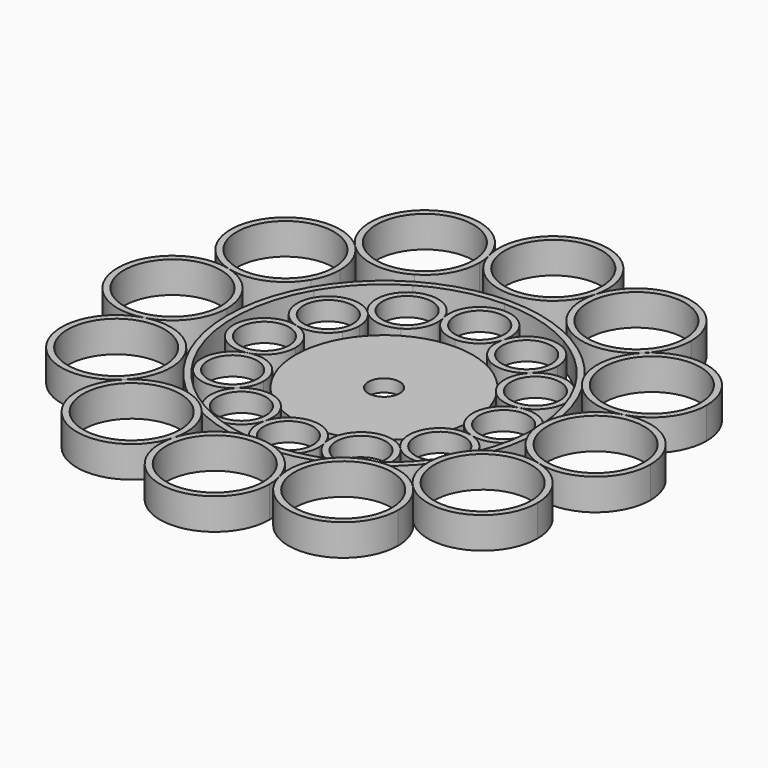
from build123d import *

# Parameters (mm, degrees)
F0_R     = 15.4599093104
F1_DEPTH = 10
F2_DEPTH = 8
F0_R_2   = 7.8690230445
F3_DEPTH = 6
F0_R_3   = 5
F4_DEPTH = 4


with BuildPart() as f1:
    # F0 (on Top) → F1 (new body)
    with BuildSketch(Plane.XY):
        with BuildLine():
            ThreePointArc((-62.9409517906, 16.8649772031), (-51.7403768626, 17.5991019337), (-43.3012700903, 25.0000001714))
            ThreePointArc((-43.3012700903, 25.0000001714), (-41.5570178466, 29.2109976955), (-40.9620858894, 33.7299546552))
            ThreePointArc((-40.9620858894, 33.7299546552), (-42.2911423312, 40.4115726372), (-46.0759748637, 46.0759748637))
            ThreePointArc((-46.0759748637, 46.0759748637), (-73.5427203081, 42.4599091413), (-62.9409517906, 16.8649772031))
        make_face()
        with Locations((-58.4219951998, 33.7299546552)):
            Circle(F0_R, mode=Mode.SUBTRACT)
    extrude(amount=F1_DEPTH)


with BuildPart() as f1b:
    # F0 (on Top) → F1, piece 2 (new body)
    with BuildSketch(Plane.XY):
        with BuildLine():
            ThreePointArc((-46.0759748637, 46.0759748637), (-36.0089300607, 41.1114578243), (-24.9999999501, 43.301270218))
            ThreePointArc((-24.9999999501, 43.301270218), (-18.6092296302, 49.6920405696), (-16.2700453448, 58.4219951998))
            ThreePointArc((-16.2700453448, 58.4219951998), (-16.4194173323, 60.7009710046), (-16.8649774978, 62.9409528903))
            ThreePointArc((-16.8649774978, 62.9409528903), (-42.4599096342, 73.5427200235), (-46.0759748637, 46.0759748637))
        make_face()
        with Locations((-33.7299546552, 58.4219951998)):
            Circle(F0_R, mode=Mode.SUBTRACT)
    extrude(amount=F1_DEPTH)


with BuildPart() as f1c:
    # F0 (on Top) → F1, piece 3 (new body)
    with BuildSketch(Plane.XY):
        with BuildLine():
            ThreePointArc((-16.8649774978, 62.9409528903), (-10.6289195521, 53.6080320989), (1.283e-07, 50))
            ThreePointArc((1.283e-07, 50), (10.6289191313, 53.608031776), (16.8649771568, 62.9409516176))
            ThreePointArc((16.8649771568, 62.9409516176), (17.3105373228, 65.1809335044), (17.4599093104, 67.4599093104))
            ThreePointArc((17.4599093104, 67.4599093104), (-2.2789751528, 84.7704467192), (-16.8649774978, 62.9409528903))
        make_face()
        with Locations((0, 67.4599093104)):
            Circle(F0_R, mode=Mode.SUBTRACT)
    extrude(amount=F1_DEPTH)


with BuildPart() as f1d:
    # F0 (on Top) → F1, piece 4 (new body)
    with BuildSketch(Plane.XY):
        with BuildLine():
            ThreePointArc((16.8649771568, 62.9409516176), (17.5991018694, 51.7403770177), (24.9999997254, 43.3012703478))
            ThreePointArc((24.9999997254, 43.3012703478), (36.0089299768, 41.1114578133), (46.0759749275, 46.0759749275))
            ThreePointArc((46.0759749275, 46.0759749275), (49.8608075066, 51.7403771761), (51.1898639656, 58.4219951998))
            ThreePointArc((51.1898639656, 58.4219951998), (36.0089298068, 75.7325326088), (16.8649771568, 62.9409516176))
        make_face()
        with Locations((33.7299546552, 58.4219951998)):
            Circle(F0_R, mode=Mode.SUBTRACT)
    extrude(amount=F1_DEPTH)


with BuildPart() as f1e:
    # F0 (on Top) → F1, piece 5 (new body)
    with BuildSketch(Plane.XY):
        with BuildLine():
            ThreePointArc((46.0759749275, 46.0759749275), (41.1114578468, 36.0089302319), (43.3012700905, 25.000000171))
            ThreePointArc((43.3012700905, 25.000000171), (51.7403768788, 17.599101927), (62.940951824, 16.8649772121))
            ThreePointArc((62.940951824, 16.8649772121), (72.2738724366, 23.101035136), (75.8819045103, 33.7299546552))
            ThreePointArc((75.8819045103, 33.7299546552), (65.1036132235, 49.8608075066), (46.0759749275, 46.0759749275))
        make_face()
        with Locations((58.4219951998, 33.7299546552)):
            Circle(F0_R, mode=Mode.SUBTRACT)
    extrude(amount=F1_DEPTH)


with BuildPart() as f1f:
    # F0 (on Top) → F1, piece 6 (new body)
    with BuildSketch(Plane.XY):
        with BuildLine():
            ThreePointArc((62.940951824, 16.8649772121), (53.608031802, 10.6289191651), (50, 0))
            ThreePointArc((50, 0), (53.6080317622, -10.6289191133), (62.9409516977, -16.8649771782))
            ThreePointArc((62.9409516977, -16.8649771782), (78.0888284237, -13.8518775483), (84.9198186209, 0))
            ThreePointArc((84.9198186209, 0), (78.0888284756, 13.8518775085), (62.940951824, 16.8649772121))
        make_face()
        with Locations((67.4599093104, 0)):
            Circle(F0_R, mode=Mode.SUBTRACT)
    extrude(amount=F1_DEPTH)


with BuildPart() as f1g:
    # F0 (on Top) → F1, piece 7 (new body)
    with BuildSketch(Plane.XY):
        with BuildLine():
            ThreePointArc((62.9409516977, -16.8649771782), (51.7403772984, -17.5991017532), (43.3012706101, -24.999999271))
            ThreePointArc((43.3012706101, -24.999999271), (41.111457779, -36.0089297167), (46.0759749275, -46.0759749275))
            ThreePointArc((46.0759749275, -46.0759749275), (65.1036132235, -49.8608075066), (75.8819045103, -33.7299546552))
            ThreePointArc((75.8819045103, -33.7299546552), (72.2738723968, -23.1010350841), (62.9409516977, -16.8649771782))
        make_face()
        with Locations((58.4219951998, -33.7299546552)):
            Circle(F0_R, mode=Mode.SUBTRACT)
    extrude(amount=F1_DEPTH)


with BuildPart() as f1h:
    # F0 (on Top) → F1, piece 8 (new body)
    with BuildSketch(Plane.XY):
        with BuildLine():
            ThreePointArc((46.0759749275, -46.0759749275), (36.0089302809, -41.1114578533), (25.0000002566, -43.3012700411))
            ThreePointArc((25.0000002566, -43.3012700411), (17.5991019809, -51.7403767486), (16.8649771648, -62.9409516474))
            ThreePointArc((16.8649771648, -62.9409516474), (36.0089298221, -75.7325326068), (51.1898639656, -58.4219951998))
            ThreePointArc((51.1898639656, -58.4219951998), (49.8608075066, -51.7403771761), (46.0759749275, -46.0759749275))
        make_face()
        with Locations((33.7299546552, -58.4219951998)):
            Circle(F0_R, mode=Mode.SUBTRACT)
    extrude(amount=F1_DEPTH)


with BuildPart() as f1i:
    # F0 (on Top) → F1, piece 9 (new body)
    with BuildSketch(Plane.XY):
        with BuildLine():
            ThreePointArc((16.8649771648, -62.9409516474), (10.6289190539, -53.6080317166), (-9.75e-08, -50))
            ThreePointArc((-9.75e-08, -50), (-10.6289191191, -53.6080317666), (-16.8649771568, -62.9409516176))
            ThreePointArc((-16.8649771568, -62.9409516176), (-2.278975806, -84.7704466332), (17.4599093104, -67.4599093104))
            ThreePointArc((17.4599093104, -67.4599093104), (17.3105373248, -65.1809335197), (16.8649771648, -62.9409516474))
        make_face()
        with Locations((0, -67.4599093104)):
            Circle(F0_R, mode=Mode.SUBTRACT)
    extrude(amount=F1_DEPTH)


with BuildPart() as f1j:
    # F0 (on Top) → F1, piece 10 (new body)
    with BuildSketch(Plane.XY):
        with BuildLine():
            ThreePointArc((-16.2700453448, -58.4219951998), (-18.6092294861, -49.6920408192), (-24.9999994509, -43.3012705063))
            ThreePointArc((-24.9999994509, -43.3012705063), (-36.0089297707, -41.1114577861), (-46.0759748576, -46.0759748576))
            ThreePointArc((-46.0759748576, -46.0759748576), (-42.4599090674, -73.5427203507), (-16.8649771568, -62.9409516176))
            ThreePointArc((-16.8649771568, -62.9409516176), (-16.4194172463, -60.7009703514), (-16.2700453448, -58.4219951998))
        make_face()
        with Locations((-33.7299546552, -58.4219951998)):
            Circle(F0_R, mode=Mode.SUBTRACT)
    extrude(amount=F1_DEPTH)


with BuildPart() as f1k:
    # F0 (on Top) → F1, piece 11 (new body)
    with BuildSketch(Plane.XY):
        with BuildLine():
            ThreePointArc((-40.9620858894, -33.7299546552), (-41.5570178998, -29.2109974969), (-43.3012702958, -24.9999998153))
            ThreePointArc((-43.3012702958, -24.9999998153), (-51.7403775411, -17.5991016526), (-62.9409528124, -16.8649774769))
            ThreePointArc((-62.9409528124, -16.8649774769), (-73.5427200415, -42.459909603), (-46.0759748576, -46.0759748576))
            ThreePointArc((-46.0759748576, -46.0759748576), (-42.2911423295, -40.4115726332), (-40.9620858894, -33.7299546552))
        make_face()
        with Locations((-58.4219951998, -33.7299546552)):
            Circle(F0_R, mode=Mode.SUBTRACT)
    extrude(amount=F1_DEPTH)


with BuildPart() as f1l:
    # F0 (on Top) → F1, piece 12 (new body)
    with BuildSketch(Plane.XY):
        with BuildLine():
            ThreePointArc((-62.9409528124, -16.8649774769), (-53.6080321134, -10.628919571), (-50, 0))
            ThreePointArc((-50, 0), (-53.6080317915, 10.6289191514), (-62.9409517906, 16.8649772031))
            ThreePointArc((-62.9409517906, 16.8649772031), (-84.9198186209, 5.289e-07), (-62.9409528124, -16.8649774769))
        make_face()
        with Locations((-67.4599093104, 0)):
            Circle(F0_R, mode=Mode.SUBTRACT)
    extrude(amount=F1_DEPTH)


with BuildPart() as f2:
    # F0 (on Top) → F2 (new body)
    with BuildSketch(Plane.XY):
        with BuildLine():
            ThreePointArc((43.3012706101, -24.999999271), (48.2962914234, -12.9409518486), (50, 0))
            ThreePointArc((50, 0), (48.2962912889, 12.9409523505), (43.3012700905, 25.000000171))
            ThreePointArc((43.3012700905, 25.000000171), (35.3553388774, 35.3553392412), (24.9999997254, 43.3012703478))
            ThreePointArc((24.9999997254, 43.3012703478), (12.940952164, 48.2962913389), (1.283e-07, 50))
            ThreePointArc((1.283e-07, 50), (-12.9409521653, 48.2962913385), (-24.9999999501, 43.301270218))
            ThreePointArc((-24.9999999501, 43.301270218), (-35.355338969, 35.3553391497), (-43.3012700903, 25.0000001714))
            ThreePointArc((-43.3012700903, 25.0000001714), (-48.2962912888, 12.9409523507), (-50, 0))
            ThreePointArc((-50, 0), (-48.2962913421, -12.9409521521), (-43.3012702958, -24.9999998153))
            ThreePointArc((-43.3012702958, -24.9999998153), (-35.3553389105, -35.3553392081), (-24.9999994509, -43.3012705063))
            ThreePointArc((-24.9999994509, -43.3012705063), (-12.940951996, -48.2962913839), (-9.75e-08, -50))
            ThreePointArc((-9.75e-08, -50), (12.9409523511, -48.2962912887), (25.0000002566, -43.3012700411))
            ThreePointArc((25.0000002566, -43.3012700411), (35.3553394617, -35.355338657), (43.3012706101, -24.999999271))
        make_face()
        with BuildLine():
            ThreePointArc((41.569218733, 24.0000011235), (46.364439494, 12.4233147915), (48, 0))
            ThreePointArc((48, 0), (46.3644397453, -12.4233138535), (41.5692197041, -23.9999994415))
            ThreePointArc((41.5692197041, -23.9999994415), (33.941125518, -33.9411254759), (23.999999493, -41.5692196743))
            ThreePointArc((23.999999493, -41.5692196743), (12.423313889, -46.3644397358), (1.41e-08, -48))
            ThreePointArc((1.41e-08, -48), (-12.4233138576, -46.3644397442), (-23.9999994612, -41.5692196927))
            ThreePointArc((-23.9999994612, -41.5692196927), (-33.9411251406, -33.9411258533), (-41.5692191888, -24.000000334))
            ThreePointArc((-41.5692191888, -24.000000334), (-46.3644396182, -12.4233143279), (-48, 4.83e-08))
            ThreePointArc((-48, 4.83e-08), (-46.3644395002, 12.4233147683), (-41.5692187811, 24.0000010402))
            ThreePointArc((-41.5692187811, 24.0000010402), (-33.9411248653, 33.9411261286), (-23.999999493, 41.5692196743))
            ThreePointArc((-23.999999493, 41.5692196743), (-12.4233138876, 46.3644397362), (-1.12e-08, 48))
            ThreePointArc((-1.12e-08, 48), (12.4233138768, 46.3644397391), (23.999999493, 41.5692196743))
            ThreePointArc((23.999999493, 41.5692196743), (33.9411248313, 33.9411261626), (41.569218733, 24.0000011235))
        make_face(mode=Mode.SUBTRACT)
    extrude(amount=F2_DEPTH)

    # F0 (on Top) → F3 (join)
    with BuildSketch(Plane.XY):
        with BuildLine():
            ThreePointArc((-26.0439415962, 26.0439415962), (-34.3105601181, 28.8500807404), (-41.5692187811, 24.0000010402))
            ThreePointArc((-41.5692187811, 24.0000010402), (-42.1401833416, 15.288777421), (-35.5766858374, 9.5327442395))
            ThreePointArc((-35.5766858374, 9.5327442395), (-29.2456830896, 9.9477000862), (-24.4755700331, 14.1309769806))
            ThreePointArc((-24.4755700331, 14.1309769806), (-23.489650472, 16.5111973713), (-23.1533716702, 19.0654884778))
            ThreePointArc((-23.1533716702, 19.0654884778), (-23.904606318, 22.8422000905), (-26.0439415962, 26.0439415962))
        make_face()
        with Locations((-33.0223947146, 19.0654884778)):
            Circle(F0_R_2, mode=Mode.SUBTRACT)
        with BuildLine():
            ThreePointArc((-9.5327442776, 35.5766859794), (-15.2887766637, 42.1401830279), (-23.999999493, 41.5692196743))
            ThreePointArc((-23.999999493, 41.5692196743), (-28.8500806238, 34.3105610037), (-26.0439415962, 26.0439415962))
            ThreePointArc((-26.0439415962, 26.0439415962), (-20.3536543812, 23.2378025178), (-14.1309767887, 24.4755701439))
            ThreePointArc((-14.1309767887, 24.4755701439), (-10.5186637626, 28.0878832758), (-9.1964654333, 33.0223947146))
            ThreePointArc((-9.1964654333, 33.0223947146), (-9.2808963033, 34.3105607876), (-9.5327442776, 35.5766859794))
        make_face()
        with Locations((-19.0654884778, 33.0223947146)):
            Circle(F0_R_2, mode=Mode.SUBTRACT)
        with BuildLine():
            ThreePointArc((9.8690230445, 38.1309769555), (6.9784531144, 45.1094300779), (-1.12e-08, 48))
            ThreePointArc((-1.12e-08, 48), (-7.8296223557, 44.1388575818), (-9.5327442776, 35.5766859794))
            ThreePointArc((-9.5327442776, 35.5766859794), (-6.0078806107, 30.3013545879), (5.06e-08, 28.2619539111))
            ThreePointArc((5.06e-08, 28.2619539111), (6.007880589, 30.3013545713), (9.5327442372, 35.5766858289))
            ThreePointArc((9.5327442372, 35.5766858289), (9.7845921838, 36.8428109534), (9.8690230445, 38.1309769555))
        make_face()
        with Locations((0, 38.1309769555)):
            Circle(F0_R_2, mode=Mode.SUBTRACT)
        with BuildLine():
            ThreePointArc((28.9345115222, 33.0223947146), (27.6123129985, 37.9569064903), (23.999999493, 41.5692196743))
            ThreePointArc((23.999999493, 41.5692196743), (15.2887765916, 42.140182998), (9.5327442372, 35.5766858289))
            ThreePointArc((9.5327442372, 35.5766858289), (9.9477001107, 29.2456830304), (14.130977084, 24.4755699734))
            ThreePointArc((14.130977084, 24.4755699734), (20.3536545502, 23.2378025401), (26.0439415962, 26.0439415962))
            ThreePointArc((26.0439415962, 26.0439415962), (28.1832768744, 29.2456831019), (28.9345115222, 33.0223947146))
        make_face()
        with Locations((19.0654884778, 33.0223947146)):
            Circle(F0_R_2, mode=Mode.SUBTRACT)
        with BuildLine():
            ThreePointArc((42.8914177591, 19.0654884778), (42.5551387856, 21.6197802248), (41.569218733, 24.0000011235))
            ThreePointArc((41.569218733, 24.0000011235), (34.3105600704, 28.8500807466), (26.0439415962, 26.0439415962))
            ThreePointArc((26.0439415962, 26.0439415962), (23.2378025354, 20.3536545144), (24.4755700095, 14.1309770214))
            ThreePointArc((24.4755700095, 14.1309770214), (29.2456830284, 9.9477001115), (35.576685755, 9.5327442174))
            ThreePointArc((35.576685755, 9.5327442174), (40.8520170871, 13.0576078734), (42.8914177591, 19.0654884778))
        make_face()
        with Locations((33.0223947146, 19.0654884778)):
            Circle(F0_R_2, mode=Mode.SUBTRACT)
        with BuildLine():
            ThreePointArc((35.5766858413, -9.5327442406), (44.1388575296, -7.8296223958), (48, 0))
            ThreePointArc((48, 0), (44.1388574941, 7.829622423), (35.576685755, 9.5327442174))
            ThreePointArc((35.576685755, 9.5327442174), (30.3013545326, 6.0078805386), (28.2619539111, 0))
            ThreePointArc((28.2619539111, 0), (30.3013545598, -6.007880574), (35.5766858413, -9.5327442406))
        make_face()
        with Locations((38.1309769555, 0)):
            Circle(F0_R_2, mode=Mode.SUBTRACT)
        with BuildLine():
            ThreePointArc((26.0439415748, -26.0439415748), (34.3105610182, -28.8500806219), (41.5692197041, -23.9999994415))
            ThreePointArc((41.5692197041, -23.9999994415), (42.555139037, -21.6197792868), (42.8914177591, -19.0654884778))
            ThreePointArc((42.8914177591, -19.0654884778), (40.8520171143, -13.0576079089), (35.5766858413, -9.5327442406))
            ThreePointArc((35.5766858413, -9.5327442406), (29.2456831486, -9.9477000618), (24.4755700949, -14.1309768735))
            ThreePointArc((24.4755700949, -14.1309768735), (23.2378025222, -20.3536544147), (26.0439415748, -26.0439415748))
        make_face()
        with Locations((33.0223947146, -19.0654884778)):
            Circle(F0_R_2, mode=Mode.SUBTRACT)
        with BuildLine():
            ThreePointArc((9.5327442783, -35.5766859822), (15.288776665, -42.1401830284), (23.999999493, -41.5692196743))
            ThreePointArc((23.999999493, -41.5692196743), (27.6123129985, -37.9569064903), (28.9345115222, -33.0223947146))
            ThreePointArc((28.9345115222, -33.0223947146), (28.1832768686, -29.2456830879), (26.0439415748, -26.0439415748))
            ThreePointArc((26.0439415748, -26.0439415748), (20.3536544974, -23.2378025331), (14.1309770179, -24.4755700116))
            ThreePointArc((14.1309770179, -24.4755700116), (9.9477000657, -29.245683139), (9.5327442783, -35.5766859822))
        make_face()
        with Locations((19.0654884778, -33.0223947146)):
            Circle(F0_R_2, mode=Mode.SUBTRACT)
        with BuildLine():
            ThreePointArc((-9.5327441984, -35.576685684), (-7.829622441, -44.1388574706), (1.41e-08, -48))
            ThreePointArc((1.41e-08, -48), (6.9784531234, -45.109430069), (9.8690230445, -38.1309769555))
            ThreePointArc((9.8690230445, -38.1309769555), (9.7845921942, -36.8428110321), (9.5327442783, -35.5766859822))
            ThreePointArc((9.5327442783, -35.5766859822), (6.0078805981, -30.3013545783), (-8.51e-08, -28.2619539111))
            ThreePointArc((-8.51e-08, -28.2619539111), (-6.0078805432, -30.3013545361), (-9.5327441984, -35.576685684))
        make_face()
        with Locations((0, -38.1309769555)):
            Circle(F0_R_2, mode=Mode.SUBTRACT)
        with BuildLine():
            ThreePointArc((-26.0439416082, -26.0439416082), (-28.8500806203, -34.3105610304), (-23.9999994612, -41.5692196927))
            ThreePointArc((-23.9999994612, -41.5692196927), (-15.2887765054, -42.1401829623), (-9.5327441984, -35.576685684))
            ThreePointArc((-9.5327441984, -35.576685684), (-9.2808962834, -34.310560636), (-9.1964654333, -33.0223947146))
            ThreePointArc((-9.1964654333, -33.0223947146), (-10.5186638192, -28.0878831777), (-14.130976985, -24.4755700306))
            ThreePointArc((-14.130976985, -24.4755700306), (-20.353654502, -23.2378025337), (-26.0439416082, -26.0439416082))
        make_face()
        with Locations((-19.0654884778, -33.0223947146)):
            Circle(F0_R_2, mode=Mode.SUBTRACT)
        with BuildLine():
            ThreePointArc((-35.5766858289, -9.5327442372), (-42.1401831838, -15.2887770402), (-41.5692191888, -24.000000334))
            ThreePointArc((-41.5692191888, -24.000000334), (-34.3105605308, -28.850080686), (-26.0439416082, -26.0439416082))
            ThreePointArc((-26.0439416082, -26.0439416082), (-23.9046063212, -22.8422000984), (-23.1533716702, -19.0654884778))
            ThreePointArc((-23.1533716702, -19.0654884778), (-23.4896504967, -16.5111972791), (-24.4755701285, -14.1309768153))
            ThreePointArc((-24.4755701285, -14.1309768153), (-29.2456831737, -9.9477000514), (-35.5766858289, -9.5327442372))
        make_face()
        with Locations((-33.0223947146, -19.0654884778)):
            Circle(F0_R_2, mode=Mode.SUBTRACT)
        with BuildLine():
            ThreePointArc((-35.5766858374, 9.5327442395), (-44.1388575088, 7.8296224117), (-48, 4.83e-08))
            ThreePointArc((-48, 4.83e-08), (-44.1388575436, -7.829622385), (-35.5766858289, -9.5327442372))
            ThreePointArc((-35.5766858289, -9.5327442372), (-30.3013545559, -6.0078805689), (-28.2619539111, 0))
            ThreePointArc((-28.2619539111, 0), (-30.3013545585, 6.0078805724), (-35.5766858374, 9.5327442395))
        make_face()
        with Locations((-38.1309769555, 0)):
            Circle(F0_R_2, mode=Mode.SUBTRACT)
    extrude(amount=F3_DEPTH)


with BuildPart() as f4:
    # F0 (on Top) → F4 (new body)
    with BuildSketch(Plane.XY):
        with BuildLine():
            ThreePointArc((24.4755700949, -14.1309768735), (27.2989511964, -7.3147318782), (28.2619539111, 0))
            ThreePointArc((28.2619539111, 0), (27.2989511743, 7.3147319608), (24.4755700095, 14.1309770214))
            ThreePointArc((24.4755700095, 14.1309770214), (19.9842192856, 19.9842192346), (14.130977084, 24.4755699734))
            ThreePointArc((14.130977084, 24.4755699734), (7.3147320201, 27.2989511584), (5.06e-08, 28.2619539111))
            ThreePointArc((5.06e-08, 28.2619539111), (-7.3147318065, 27.2989512156), (-14.1309767887, 24.4755701439))
            ThreePointArc((-14.1309767887, 24.4755701439), (-19.9842191818, 19.9842193384), (-24.4755700331, 14.1309769806))
            ThreePointArc((-24.4755700331, 14.1309769806), (-27.2989511804, 7.3147319379), (-28.2619539111, 0))
            ThreePointArc((-28.2619539111, 0), (-27.2989512051, -7.3147318458), (-24.4755701285, -14.1309768153))
            ThreePointArc((-24.4755701285, -14.1309768153), (-19.9842193294, -19.9842191908), (-14.130976985, -24.4755700306))
            ThreePointArc((-14.130976985, -24.4755700306), (-7.3147319815, -27.2989511687), (-8.51e-08, -28.2619539111))
            ThreePointArc((-8.51e-08, -28.2619539111), (7.3147319177, -27.2989511858), (14.1309770179, -24.4755700116))
            ThreePointArc((14.1309770179, -24.4755700116), (19.984219319, -19.9842192012), (24.4755700949, -14.1309768735))
        make_face()
        Circle(F0_R_3, mode=Mode.SUBTRACT)
    extrude(amount=F4_DEPTH)


solid = Compound([f1.part, f1b.part, f1c.part, f1d.part, f1e.part, f1f.part, f1g.part, f1h.part, f1i.part, f1j.part, f1k.part, f1l.part, f2.part, f4.part])
